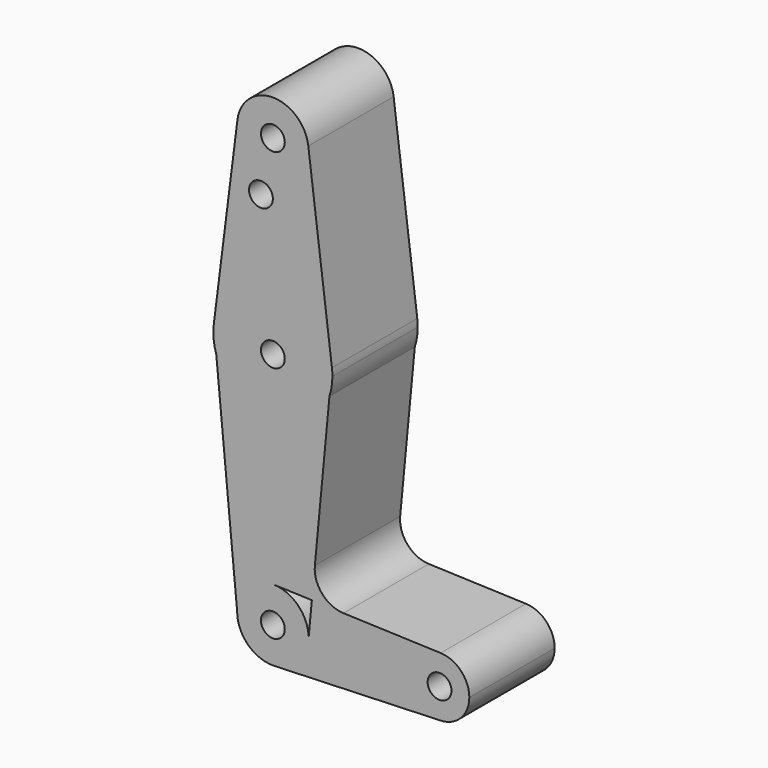
from build123d import *

# Parameters (mm, degrees)
F0_R     = 3.175
F1_DEPTH = 28.448


with BuildPart() as f1:
    # F0 (on Front) → F1 (new body)
    with BuildSketch(Plane.XZ):
        with BuildLine():
            ThreePointArc((-9.4502929642, 115.490625), (-0.596483242, 104.7936951058), (9.525, 114.3))
            ThreePointArc((9.525, 114.3), (9.5063048942, 114.896483242), (9.4502929642, 115.490625))
            ThreePointArc((9.4502929642, 115.490625), (0, 123.825), (-9.4502929642, 115.490625))
        make_face()
        with Locations((0, 114.3)):
            Circle(F0_R, mode=Mode.SUBTRACT)
        with BuildLine():
            ThreePointArc((9.4502929642, 115.490625), (9.5063048942, 114.896483242), (9.525, 114.3))
            ThreePointArc((9.525, 114.3), (-0.596483242, 104.7936951058), (-9.4502929642, 115.490625))
            Line((-9.4502929642, 115.490625), (-15.7504882737, 65.484375))
            ThreePointArc((-15.7504882737, 65.484375), (0, 79.375), (15.7504882737, 65.484375))
            Line((15.7504882737, 65.484375), (9.4502929642, 115.490625))
        make_face()
        with Locations((-3.175, 100.0252)):
            Circle(F0_R, mode=Mode.SUBTRACT)
        with BuildLine():
            Line((15.0944103202, 58.583252896), (15.7504882737, 65.484375))
            ThreePointArc((15.7504882737, 65.484375), (0, 79.375), (-15.7504882737, 65.484375))
            Line((-15.7504882737, 65.484375), (-15.0944103202, 58.583252896))
            ThreePointArc((-15.0944103202, 58.583252896), (0, 47.625), (15.0944103202, 58.583252896))
        make_face()
        with Locations((0, 63.5)):
            Circle(F0_R, mode=Mode.SUBTRACT)
        with BuildLine():
            ThreePointArc((15.875, 63.5), (15.8438414904, 64.4941387366), (15.7504882737, 65.484375))
            Line((15.7504882737, 65.484375), (15.0944103202, 58.583252896))
            ThreePointArc((15.0944103202, 58.583252896), (15.6786381557, 61.0108373731), (15.875, 63.5))
        make_face()
        with BuildLine():
            Line((-15.0944103202, 58.583252896), (-15.7504882737, 65.484375))
            ThreePointArc((-15.7504882737, 65.484375), (-15.8037436669, 61.9975649401), (-15.0944103202, 58.583252896))
        make_face()
        with BuildLine():
            Line((11.1940088369, 17.5558921241), (15.0944103202, 58.583252896))
            ThreePointArc((15.0944103202, 58.583252896), (0, 47.625), (-15.0944103202, 58.583252896))
            Line((-15.0944103202, 58.583252896), (-9.525, 0))
            ThreePointArc((-9.525, 0), (-6.6138273378, 6.8544082857), (0.3401785714, 9.5189234444))
            Line((0.3401785714, 9.5189234444), (10.3957843217, 9.159565412))
            Line((10.3957843217, 9.159565412), (11.1940088369, 17.5558921241))
        make_face()
        with BuildLine():
            ThreePointArc((18.824587951, 8.8583445445), (13.1322805896, 11.560363002), (11.1940088369, 17.5558921241))
            Line((11.1940088369, 17.5558921241), (10.3957843217, 9.159565412))
            Line((10.3957843217, 9.159565412), (18.824587951, 8.8583445445))
        make_face()
        with BuildLine():
            ThreePointArc((0.3401785714, 9.5189234444), (-6.6138273378, 6.8544082857), (-9.525, 0))
            ThreePointArc((-9.525, 0), (-6.6138273378, -6.8544082857), (0.3401785714, -9.5189234444))
            ThreePointArc((0.3401785714, -9.5189234444), (6.8544082857, -6.6138273378), (9.525, 0))
            ThreePointArc((9.525, 0), (6.8544082857, 6.6138273378), (0.3401785714, 9.5189234444))
        make_face()
        Circle(F0_R, mode=Mode.SUBTRACT)
        with BuildLine():
            Line((18.824587951, 8.8583445445), (10.3957843217, 9.159565412))
            Line((10.3957843217, 9.159565412), (9.525, 0))
            Line((9.525, 0), (36.5125, 0))
            ThreePointArc((36.5125, 0), (38.9384772185, 5.7120069047), (44.7334821429, 7.9324362036))
            Line((44.7334821429, 7.9324362036), (18.824587951, 8.8583445445))
        make_face()
        with BuildLine():
            ThreePointArc((9.525, 0), (6.8544082857, -6.6138273378), (0.3401785714, -9.5189234444))
            Line((0.3401785714, -9.5189234444), (44.7334821429, -7.9324362036))
            ThreePointArc((44.7334821429, -7.9324362036), (38.9384772185, -5.7120069047), (36.5125, 0))
            Line((36.5125, 0), (9.525, 0))
        make_face()
        with BuildLine():
            ThreePointArc((52.3875, 0), (50.1620069047, 5.5115227815), (44.7334821429, 7.9324362036))
            ThreePointArc((44.7334821429, 7.9324362036), (38.9384772185, 5.7120069047), (36.5125, 0))
            ThreePointArc((36.5125, 0), (38.9384772185, -5.7120069047), (44.7334821429, -7.9324362036))
            ThreePointArc((44.7334821429, -7.9324362036), (50.1620069047, -5.5115227815), (52.3875, 0))
        make_face()
        with BuildLine():
            ThreePointArc((47.625, 0), (44.45, -3.175), (41.275, 0))
            ThreePointArc((41.275, 0), (44.45, 3.175), (47.625, 0))
        make_face(mode=Mode.SUBTRACT)
    extrude(amount=F1_DEPTH)


solid = f1.part
